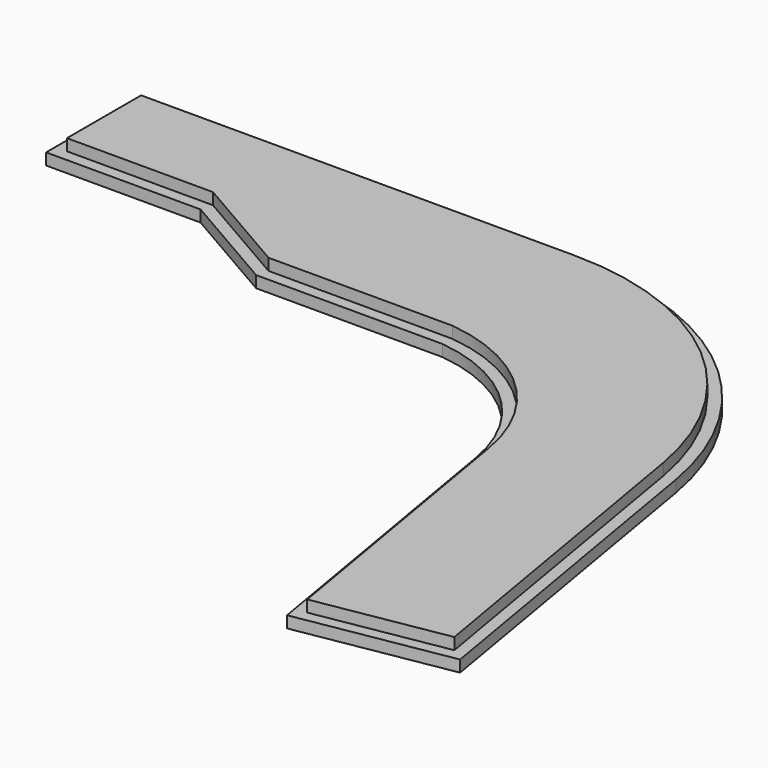
from build123d import *

# Parameters (mm, degrees)
F1_DEPTH = 3
F3_DEPTH = 3


with BuildPart() as f1:
    # F0 (on Top) → F1 (new body)
    with BuildSketch(Plane.XY):
        with BuildLine():
            Line((-19.815123, 85.580201), (-134.815123, 85.580201))
            Line((-134.815123, 85.580201), (-134.815123, 55.580201))
            Line((-134.815123, 55.580201), (-94.815123, 55.580201))
            Line((-94.815123, 55.580201), (-68.077501, 40.143228))
            Line((-68.077501, 40.143228), (-19.815123, 40.143228))
            ThreePointArc((-19.815123, 40.143228), (4.103751, 28.920095), (16.539546, 5.608676))
            Line((16.539546, 5.608676), (29.828055, -72.248265))
            Line((29.828055, -72.248265), (69.25786, -65.518444))
            Line((69.25786, -65.518444), (54.115761, 23.198617))
            ThreePointArc((54.115761, 23.198617), (28.551285, 67.901145), (-19.815123, 85.580201))
        make_face()
    extrude(amount=F1_DEPTH)

    # F2 (on face) → F3 (join)
    with BuildSketch(Plane.XY.offset(3)):
        with BuildLine():
            Line((-94.011275, 58.580201), (-67.273654, 43.143228))
            Line((-67.273654, 43.143228), (-19.641422, 43.143228))
            ThreePointArc((-19.641422, 43.143228), (6.104677, 31.157021), (19.496781, 6.113412))
            Line((19.496781, 6.113412), (32.280554, -68.786293))
            Line((32.280554, -68.786293), (65.795888, -63.065945))
            Line((65.795888, -63.065945), (51.158526, 22.69388))
            ThreePointArc((51.158526, 22.69388), (26.616629, 65.608307), (-19.815123, 82.580201))
            Line((-19.815123, 82.580201), (-131.815123, 82.580201))
            Line((-131.815123, 82.580201), (-131.815123, 58.580201))
            Line((-131.815123, 58.580201), (-94.011275, 58.580201))
        make_face()
    extrude(amount=F3_DEPTH)


solid = f1.part
